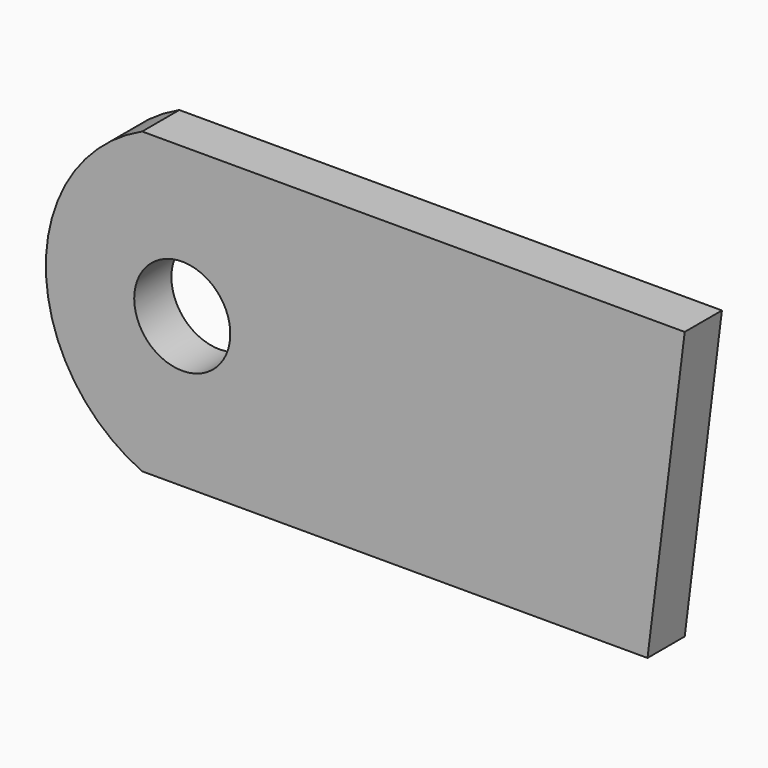
from build123d import *

# Parameters (mm, degrees)
F1_DEPTH = 15
F2_D     = 31


with BuildPart() as f1:
    # F0 (on Front) → F1 (new body)
    with BuildSketch(Plane.XZ):
        with BuildLine():
            ThreePointArc((-65.015006, 48.24327), (-96.069918, 0), (-65.015006, -48.24327))
            Line((-65.015006, -48.24327), (97.984994, -48.24327))
            Line((97.984994, -48.24327), (109.984994, 48.24327))
            Line((109.984994, 48.24327), (-65.015006, 48.24327))
        make_face()
    extrude(amount=F1_DEPTH)

    # F2 (through all)
    with Locations(Plane(origin=(0, 0, 0), x_dir=(1, 0, 0), z_dir=(0, 1, 0))):
        with Locations((-52.069918, 0)):
            Hole(F2_D / 2)


solid = f1.part
